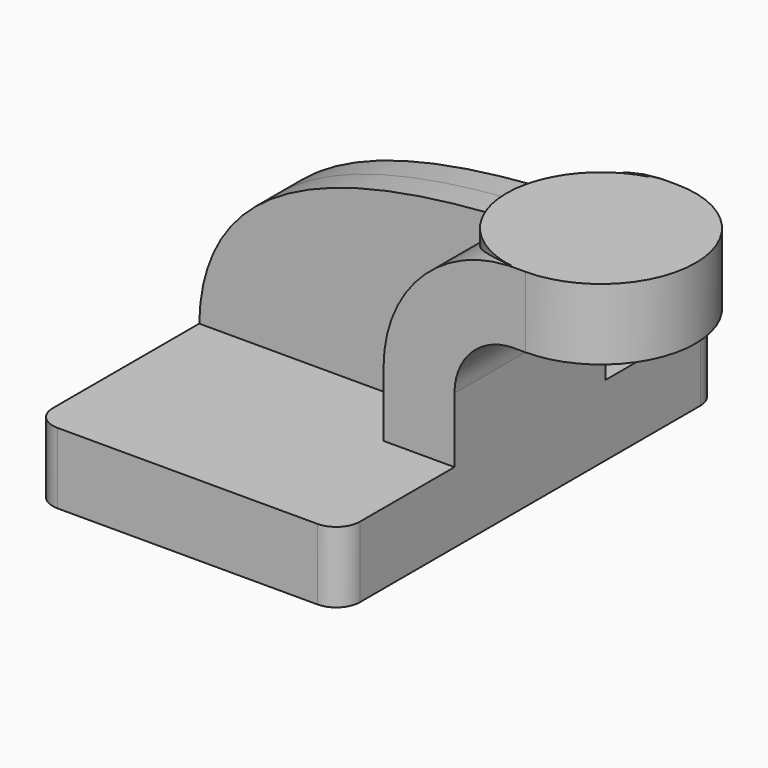
from build123d import *

# Parameters (mm, degrees)
F1_DEPTH = 63.5
F2_DEPTH = 25.4
F3_DEPTH = 7.9375
F0_W     = 25.4
F0_H     = 19.05
F5_R     = 6.35


with BuildPart() as f1:
    # F0 (on Front) → F1 (new body, symmetric)
    with BuildSketch(Plane.XZ):
        Polygon((-41.275, 9.525), (-41.275, -9.525), (41.275, -9.525), (41.275, 9.525), (22.225, 9.525), align=None)
    extrude(amount=F1_DEPTH, both=True)

    # F0 (on Front) → F2 (join, symmetric)
    with BuildSketch(Plane.XZ):
        with BuildLine():
            Line((22.225, 9.525), (41.275, 9.525))
            Line((41.275, 9.525), (41.275, 27.0002))
            ThreePointArc((41.275, 27.0002), (45.9246798487, 38.2255201513), (57.15, 42.8752))
            Line((57.15, 42.8752), (60.325, 42.8752))
            Line((60.325, 42.8752), (60.325, 61.9252))
            Line((60.325, 61.9252), (57.15, 61.9252))
            add(Edge.make_bspline(
                [(55.5876742253, 61.8902381653), (56.1088932131, 61.9027160725), (56.6296931804, 61.9143561764), (57.15, 61.9252)],
                knots=[110.264215812, 110.264215812, 110.264215812, 110.264215812, 111.5045361635, 111.5045361635, 111.5045361635, 111.5045361635], degree=3))
            ThreePointArc((55.5876742253, 61.8902381653), (31.9079730144, 51.137219258), (22.225, 27.0002))
            Line((22.225, 27.0002), (22.225, 9.525))
        make_face()
    extrude(amount=F2_DEPTH, both=True)

    # F0 (on Front) → F3 (join, symmetric)
    with BuildSketch(Plane.XZ):
        with BuildLine():
            add(Edge.make_bspline(
                [(-41.275, 9.525), (-40.3964327978, 53.0503686598), (9.2514169059, 60.7809548666), (55.5876742253, 61.8902381653)],
                knots=[0, 0, 0, 0, 110.264215812, 110.264215812, 110.264215812, 110.264215812], degree=3))
            Line((-41.275, 9.525), (22.225, 9.525))
            Line((22.225, 9.525), (22.225, 27.0002))
            ThreePointArc((22.225, 27.0002), (31.9079730144, 51.137219258), (55.5876742253, 61.8902381653))
        make_face()
    extrude(amount=F3_DEPTH, both=True)

    # F0 (on Front) → F4 (revolve)
    with BuildSketch(Plane.XZ):
        with Locations((73.025, 52.4002)):
            Rectangle(F0_W, F0_H)
    revolve(axis=Axis((60.325, 0, 52.3875), (0, 0, 1)))

    # F5
    f5_edges = [f1.edges().sort_by_distance(p)[0] for p in [
        (-41.275, -63.5, 0),
        (41.275, -63.5, 0),
        (41.275, 63.5, 0),
        (-41.275, 63.5, 0),
    ]]
    fillet(f5_edges, radius=F5_R)


solid = f1.part
